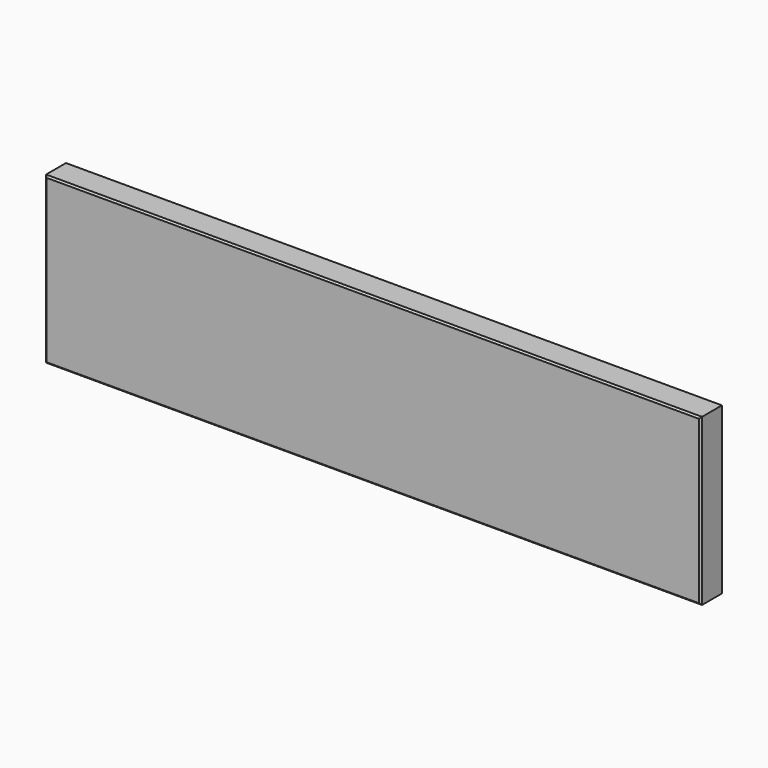
from build123d import *

# Parameters (mm, degrees)
F0_W     = 43.5700342059
F0_H     = 38.6628769338
F1_DEPTH = 16
F2_DEPTH = 396
F3_DEPTH = 100
F4_SIZE  = 1


with BuildPart() as f1:
    # F0 (on Front) → F1 (new body)
    with BuildSketch(Plane.XZ):
        with Locations((21.785017103, 19.3314384669)):
            Rectangle(F0_W, F0_H)
    extrude(amount=F1_DEPTH)

    # F2 (add): a face of the model
    f2_faces = [f1.faces().sort_by_distance(p)[0] for p in [
        (0, -8, 19.3314384669),
    ]]
    extrude(f2_faces, amount=-F2_DEPTH)

    # F3 (add): a face of the model
    f3_faces = [f1.faces().sort_by_distance(p)[0] for p in [
        (198, -8, 0),
    ]]
    extrude(f3_faces, amount=-F3_DEPTH)

    # F4
    f4_edges = [f1.edges().sort_by_distance(p)[0] for p in [
        (0, -16, 50),
        (198, -16, 0),
        (396, -16, 50),
        (198, -16, 100),
    ]]
    chamfer(f4_edges, length=F4_SIZE)


solid = f1.part
